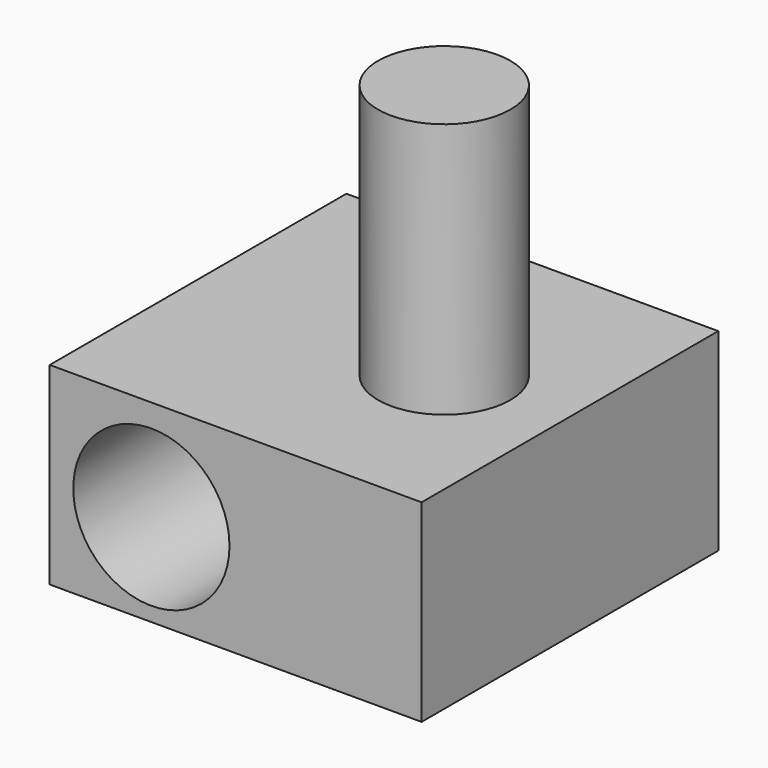
from build123d import *

# Parameters (mm, degrees)
F0_W     = 95.491998
F0_H     = 49.64583
F0_R     = 20.059681
F1_DEPTH = 95.213123
F2_R     = 16.985566
F3_DEPTH = 65.656334


with BuildPart() as f1:
    # F0 (on Front) → F1 (new body)
    with BuildSketch(Plane.XZ):
        with Locations((12.60728, 1.098985)):
            Rectangle(F0_W, F0_H)
        with Locations((-9.042681, 0)):
            Circle(F0_R, mode=Mode.SUBTRACT)
    extrude(amount=-F1_DEPTH)

    # F2 (on face) → F3 (join)
    with BuildSketch(Plane.XY.offset(25.9219)):
        with Locations((29.532403, 45.785598)):
            Circle(F2_R)
    extrude(amount=F3_DEPTH)


solid = f1.part
